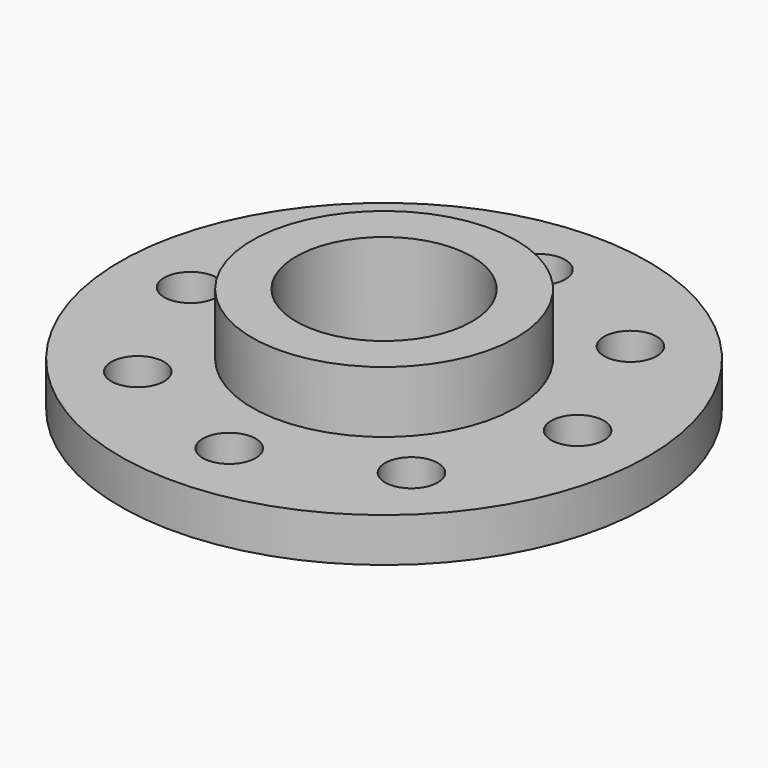
from build123d import *

# Parameters (mm, degrees)
CYLINDER003_R     = 3
CYLINDER003_DEPTH = 10
ARRAY001_COUNT    = 8
CYLINDER002_R     = 10
CYLINDER002_DEPTH = 30
CYLINDER001_R     = 15
CYLINDER001_DEPTH = 12
CYLINDER_R        = 30
CYLINDER_DEPTH    = 5


with BuildPart() as array001:
    # Cylinder003 → Cylinder003 (new body)
    with BuildSketch(Plane(origin=(22, 0, -1), x_dir=(1, 0, 0), z_dir=(0, 0, 1))):
        Circle(CYLINDER003_R)
    extrude(amount=CYLINDER003_DEPTH)

    # Array001: Array001 ×8 about axis
    array001_axis = Axis((0, 0, 0), (0, 0, 1))


with BuildPart() as array001_1:
    add(array001.part)
    for i in range(1, ARRAY001_COUNT):
        add(array001.part.rotate(array001_axis, i * 360 / ARRAY001_COUNT))


with BuildPart() as tub_interior:
    # Cylinder002 → Cylinder002 (new body)
    with BuildSketch(Plane.XY.offset(-1)):
        Circle(CYLINDER002_R)
    extrude(amount=CYLINDER002_DEPTH)


with BuildPart() as tub_exterior:
    # Cylinder001 → Cylinder001 (new body)
    with BuildSketch(Plane.XY):
        Circle(CYLINDER001_R)
    extrude(amount=CYLINDER001_DEPTH)


with BuildPart() as cut001:
    # Cylinder → Cylinder (new body)
    with BuildSketch(Plane.XY):
        Circle(CYLINDER_R)
    extrude(amount=CYLINDER_DEPTH)

    # Fusion: union Tub_exterior
    add(tub_exterior.part)

    # Cut: cut Tub_Interior
    add(tub_interior.part, mode=Mode.SUBTRACT)

    # Cut001: cut Array001
    add(array001_1.part, mode=Mode.SUBTRACT)


solid = cut001.part
